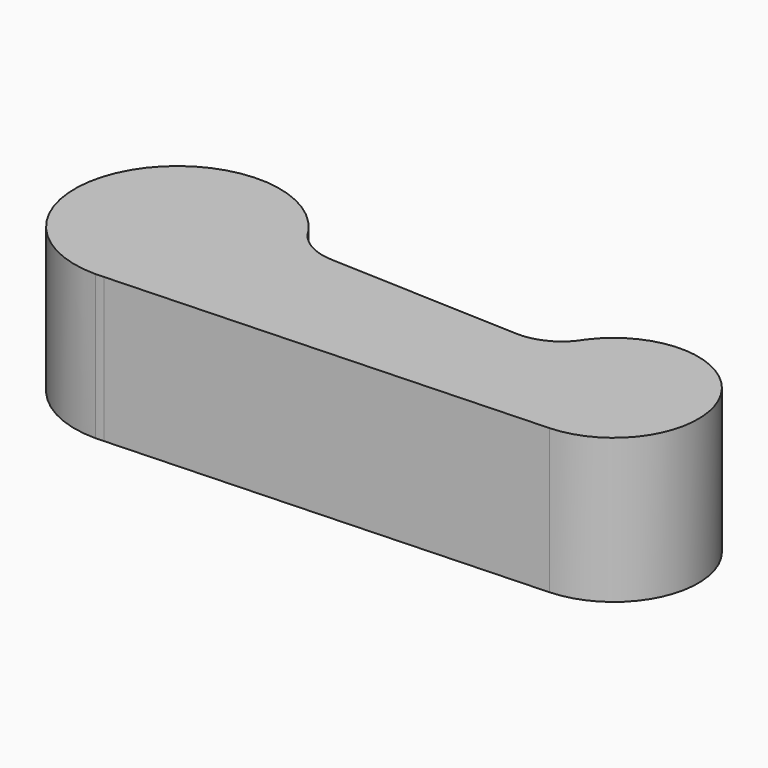
from build123d import *

# Parameters (mm, degrees)
F1_DEPTH = 132.5


with BuildPart() as f1:
    # F0 (on Top) → F1 (new body)
    with BuildSketch(Plane.XY):
        with BuildLine():
            ThreePointArc((75.866733, 55.4999), (78.237558, 51.506392), (80.968692, 47.750088))
            ThreePointArc((80.968692, 47.750088), (78.513391, 51.687982), (75.866733, 55.4999))
        make_face()
        with BuildLine():
            ThreePointArc((120, 29), (98.349314, 33.930633), (80.968692, 47.750088))
            ThreePointArc((80.968692, 47.750088), (78.237558, 51.506392), (75.866733, 55.4999))
            ThreePointArc((75.866733, 55.4999), (-83.824193, 42.538273), (0, -94))
            Line((0, -94), (7.711251, -93.683171))
            Line((7.711251, -93.683171), (403.181522, -77.434669))
            ThreePointArc((403.181522, -77.434669), (468.607926, 36.044451), (338.04126, 46.554963))
            ThreePointArc((338.04126, 46.554963), (336.236443, 43.723582), (334.245664, 41.019718))
            ThreePointArc((334.245664, 41.019718), (315.896852, 26.576201), (292.99007, 22.040415))
            Line((292.99007, 22.040415), (120, 29))
        make_face()
        with BuildLine():
            Line((7.711251, -93.683171), (0, -94))
            ThreePointArc((0, -94), (3.858878, -93.920759), (7.711251, -93.683171))
        make_face()
        with BuildLine():
            ThreePointArc((338.04126, 46.554963), (336.083514, 43.828448), (334.245664, 41.019718))
            ThreePointArc((334.245664, 41.019718), (336.236443, 43.723582), (338.04126, 46.554963))
        make_face()
    extrude(amount=-F1_DEPTH)


solid = f1.part
